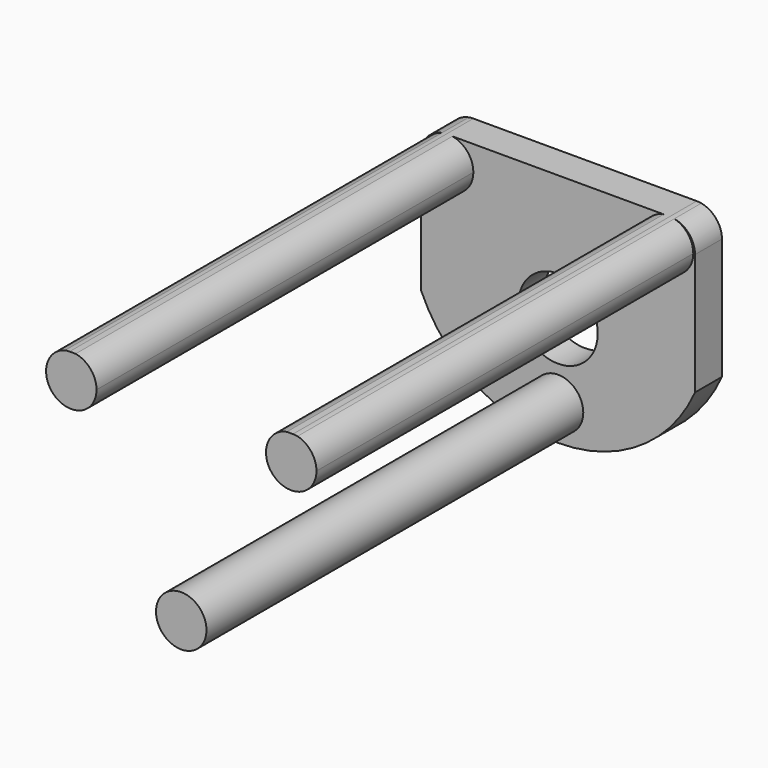
from build123d import *

# Parameters (mm, degrees)
F0_R     = 3.81
F0_R_2   = 5.9944
F1_DEPTH = 5.08
F2_DEPTH = 76.2
F3_DEPTH = 76.2


with BuildPart() as f1:
    # F0 (on Front) → F1 (new body)
    with BuildSketch(Plane.XZ):
        with BuildLine():
            Line((36.615222, 3.8862), (4.730572, 3.8862))
            ThreePointArc((4.730572, 3.8862), (6.989429, 2.583681), (7.881685, 0.133605))
            ThreePointArc((7.881685, 0.133605), (1.736186, -2.876635), (3.124967, 3.82411))
            ThreePointArc((3.124967, 3.82411), (0.883733, 2.51609), (0, 0.0762))
            Line((0, 0.0762), (0, 0))
            Line((0, 0), (0, -18.171335))
            ThreePointArc((0, -18.171335), (20.650768, -31.684862), (41.3512, -18.247535))
            Line((41.3512, -18.247535), (41.3512, 0))
            Line((41.3512, 0), (41.3512, 0.0762))
            ThreePointArc((41.3512, 0.0762), (40.470217, 2.512788), (38.234685, 3.822555))
            ThreePointArc((38.234685, 3.822555), (40.291913, 2.466165), (41.08876, 0.134425))
            ThreePointArc((41.08876, 0.134425), (34.830493, -2.784837), (36.615222, 3.8862))
        make_face()
        with Locations((20.671425, -26.422268)):
            Circle(F0_R, mode=Mode.SUBTRACT)
        with Locations((20.671425, -15.165246)):
            Circle(F0_R_2, mode=Mode.SUBTRACT)
    extrude(amount=F1_DEPTH)

    # F0 (on Front) → F2 (join)
    with BuildSketch(Plane.XZ):
        with BuildLine():
            Line((4.730572, 3.8862), (3.81, 3.8862))
            ThreePointArc((3.81, 3.8862), (3.46608, 3.870646), (3.124967, 3.82411))
            ThreePointArc((3.124967, 3.82411), (1.736186, -2.876635), (7.881685, 0.133605))
            ThreePointArc((7.881685, 0.133605), (6.989429, 2.583681), (4.730572, 3.8862))
        make_face()
        with BuildLine():
            Line((37.5412, 3.8862), (36.615222, 3.8862))
            ThreePointArc((36.615222, 3.8862), (34.830493, -2.784837), (41.08876, 0.134425))
            ThreePointArc((41.08876, 0.134425), (40.291913, 2.466165), (38.234685, 3.822555))
            ThreePointArc((38.234685, 3.822555), (37.8894, 3.870255), (37.5412, 3.8862))
        make_face()
    extrude(amount=F2_DEPTH)

    # F0 (on Front) → F3 (join)
    with BuildSketch(Plane.XZ):
        with Locations((20.671425, -26.422268)):
            Circle(F0_R)
    extrude(amount=F3_DEPTH)


solid = f1.part
